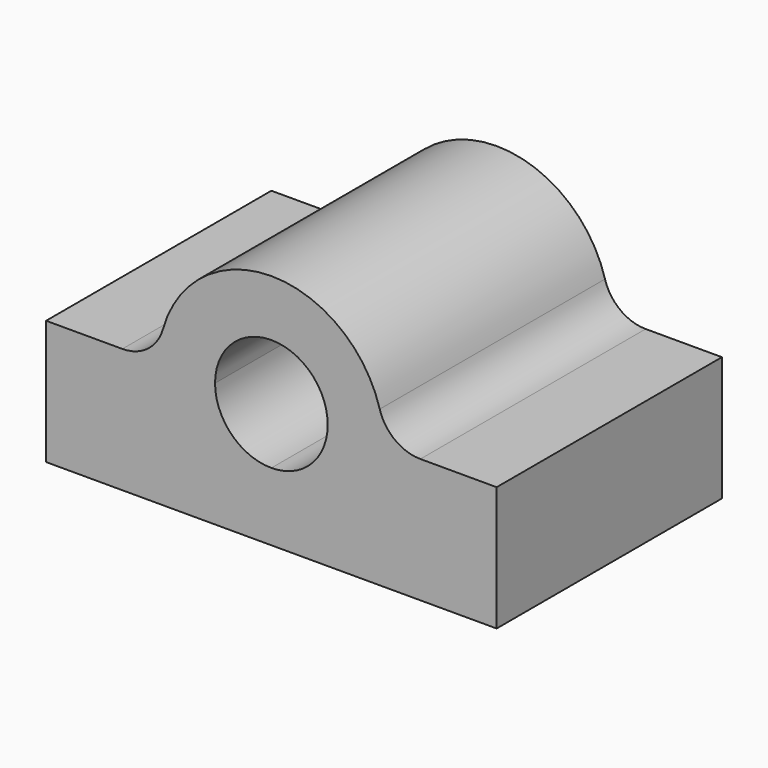
from build123d import *

# Parameters (mm, degrees)
F1_DEPTH = 127
F2_R     = 6.35
F3_DEPTH = 31.75


with BuildPart() as f1:
    # F0 (on Front) → F1 (new body)
    with BuildSketch(Plane.XZ):
        with BuildLine():
            Line((-101.6, -56.109019), (0, -56.109019))
            Line((0, -56.109019), (101.6, -56.109019))
            Line((101.6, -56.109019), (101.6, 0))
            Line((101.6, 0), (67.202083, 0))
            ThreePointArc((67.202083, 0), (55.714501, 3.853357), (48.874242, 13.854545))
            ThreePointArc((48.874242, 13.854545), (0, 50.8), (-48.874242, 13.854545))
            ThreePointArc((-48.874242, 13.854545), (-55.714501, 3.853357), (-67.202083, 0))
            Line((-67.202083, 0), (-101.6, 0))
            Line((-101.6, 0), (-101.6, -56.109019))
        make_face()
        with BuildLine():
            ThreePointArc((-25.4, 0), (0, 25.4), (25.4, 0))
            ThreePointArc((25.4, 0), (17.960512, -17.960512), (0, -25.4))
            ThreePointArc((0, -25.4), (-17.960512, -17.960512), (-25.4, 0))
        make_face(mode=Mode.SUBTRACT)
    extrude(amount=F1_DEPTH)

    # F2 (on face) → F3 (cut)
    with BuildSketch(Plane(origin=(0, 0, -56.109019), x_dir=(1, 0, 0), z_dir=(0, 0, -1))):
        with Locations((-76.2, 101.6)):
            Circle(F2_R)
        with Locations((-76.2, 25.4)):
            Circle(F2_R)
        with Locations((76.2, 101.6)):
            Circle(F2_R)
        with Locations((76.2, 25.4)):
            Circle(F2_R)
    extrude(amount=-F3_DEPTH, mode=Mode.SUBTRACT)


solid = f1.part
